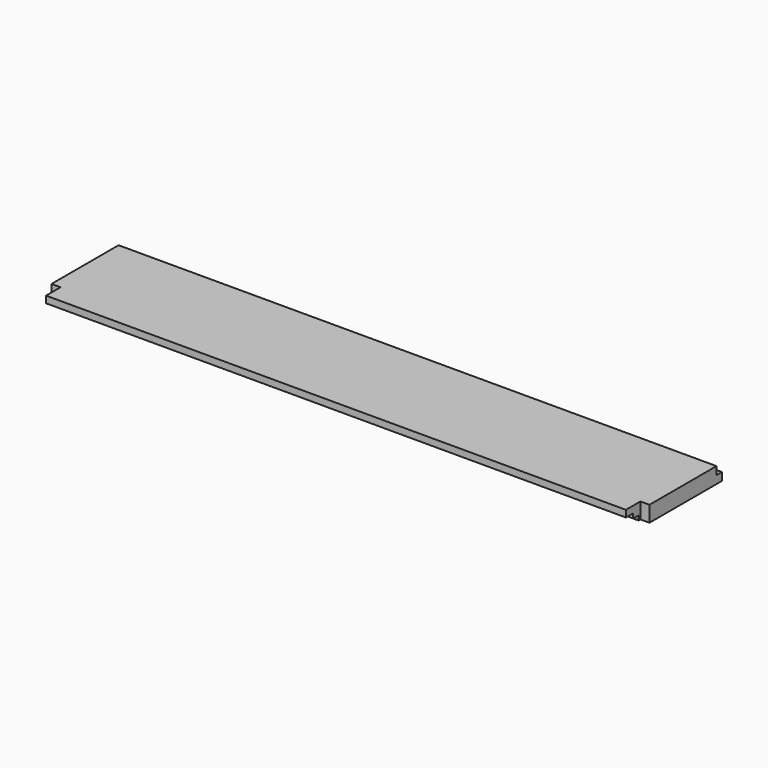
from build123d import *

# Parameters (mm, degrees)
F0_W     = 419.1
F0_H     = 152.4
F1_DEPTH = 22.225
F2_W     = 12.7
F2_H     = 25.4
F3_DEPTH = 22.226
F4_W     = 9.525
F4_H     = 11.1125
F5_DEPTH = 419.101


with BuildPart() as f1:
    # F0 (on Top) → F1 (new body)
    with BuildSketch(Plane.XY):
        with Locations((209.55, 76.2)):
            Rectangle(F0_W, F0_H)
    extrude(amount=F1_DEPTH)

    # F2 (on face) → F3 (cut, through all)
    with BuildSketch(Plane.XY.offset(22.225)):
        with Locations((6.35, 12.7)):
            Rectangle(F2_W, F2_H)
    extrude(amount=-F3_DEPTH, mode=Mode.SUBTRACT)

    # F4 (on face) → F5 (cut, through all)
    with BuildSketch(Plane.YZ.offset(419.1)):
        Polygon((12.7, 12.7), (0, 12.7), (0, 0), (22.225, 0), (22.225, 6.35), (12.7, 6.35), align=None)
        with Locations((147.6375, 16.66875)):
            Rectangle(F4_W, F4_H)
    extrude(amount=-F5_DEPTH, mode=Mode.SUBTRACT)

    # F6: F1 across face


with BuildPart() as f1_1:
    add(f1.part)
    add(f1.part.mirror(Plane(origin=(419.1, 78.572096, 11.328264), x_dir=(0, 1, 0), z_dir=(1, 0, 0))))


solid = f1_1.part
